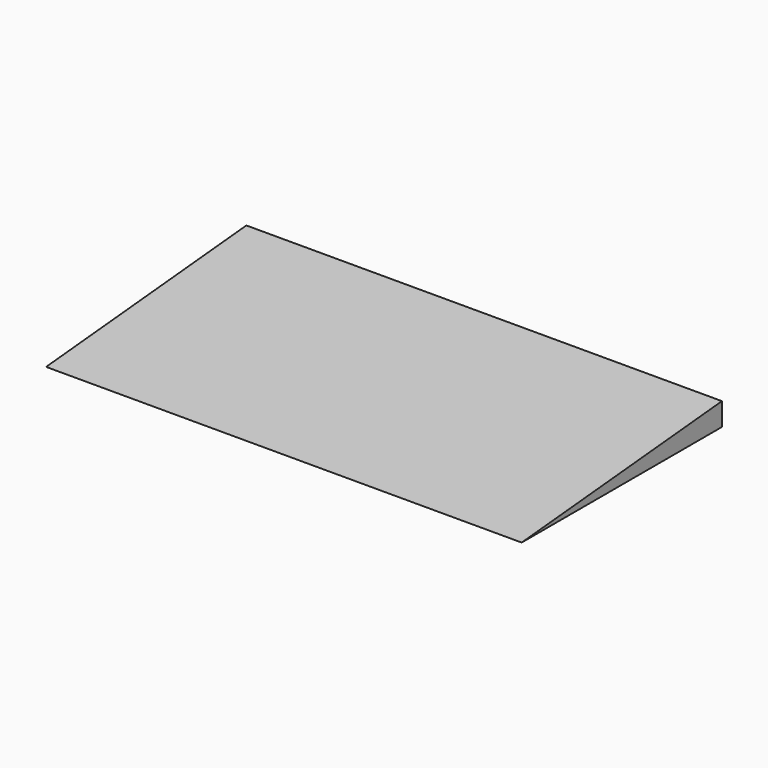
from build123d import *

# Parameters (mm, degrees)
F1_DEPTH = 4180


with BuildPart() as f1:
    # F0 (on Right) → F1 (new body)
    with BuildSketch(Plane.YZ):
        Polygon((2200, 200.2), (0, 0), (2200, 0), align=None)
    extrude(amount=-F1_DEPTH)


solid = f1.part
